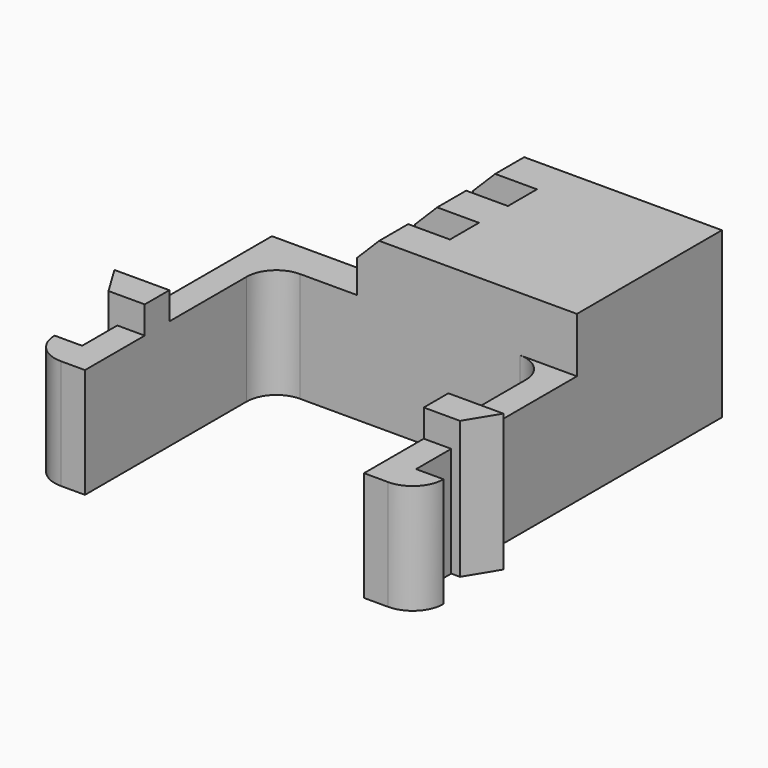
from build123d import *

# Parameters (mm, degrees)
PAD017_DEPTH           = 5
PAD020_DEPTH           = 6.25
SKETCH038_W            = 10
SKETCH038_H            = 1.65
PAD021_DEPTH           = 5
SKETCH085_W            = 10
SKETCH085_H            = 1.65
PAD054_DEPTH           = 7.5
SKETCH083_W            = 7.1
SKETCH083_H            = 1.65
PAD055_DEPTH           = 7.5
SKETCH082_W            = 10
SKETCH082_H            = 1.65
PAD056_DEPTH           = 4.6
SKETCH084_W            = 10
SKETCH084_H            = 1.65
PAD057_DEPTH           = 7.5
LINEARPATTERN019_COUNT = 2
LINEARPATTERN019_PITCH = 3.3
CHAMFER009_SIZE        = 1


with BuildPart() as obj1:
    # Sketch034 → Pad017 (new body)
    with BuildSketch(Plane.XY):
        with BuildLine():
            Line((-1.35, -1.8), (-1.35, 6))
            ThreePointArc((0, 7.35), (-0.954594, 6.954594), (-1.35, 6))
            Line((0, 9), (0, 7.35))
            Line((-2.6, 9), (0, 9))
            Line((-2.6, -1.8), (-2.6, 9))
            Line((-3.85, -1.8), (-2.6, -1.8))
            ThreePointArc((-3.85, -1.8), (-3.439949, -2.789949), (-2.45, -3.2))
            Line((-1.35, -3.2), (-2.45, -3.2))
            Line((-1.35, -1.8), (-1.35, -3.2))
        make_face()
    extrude(amount=PAD017_DEPTH)

    # Sketch037 → Pad020 (join)
    with BuildSketch(Plane.XY):
        Polygon((-1.35, 0.2), (-1.35, 1.6), (-2.6, 1.6), (-3.85, 1.6), (-3, 0.2), (-2.6, 0.2), align=None)
    extrude(amount=PAD020_DEPTH)


with BuildPart() as body030:
    # Mirror002: instance of _obj1
    add(obj1.part.mirror(Plane(origin=(5, 0, 0), x_dir=(0, 1, 0), z_dir=(-1, 0, 0))))

    # Fusion002: union _obj1
    add(obj1.part)


with BuildPart() as body030_1:
    # Clone003 placement: moved
    add(body030.part.moved(Location((-5, 0, 0))))

    # Sketch038 → Pad021 (new body)
    with BuildSketch(Plane.XY):
        with Locations((0, 8.175)):
            Rectangle(SKETCH038_W, SKETCH038_H)
    extrude(amount=PAD021_DEPTH)

    # Sketch085 → Pad054 (new body)
    with BuildSketch(Plane.XY):
        with Locations((2.6, 8.175)):
            Rectangle(SKETCH085_W, SKETCH085_H)
    extrude(amount=PAD054_DEPTH)

    # Sketch083 → Pad055 (join)
    with BuildSketch(Plane.XY):
        with Locations((4.05, 9.825)):
            Rectangle(SKETCH083_W, SKETCH083_H)
    pad055 = extrude(amount=PAD055_DEPTH)

    # Sketch082 → Pad056 (join)
    with BuildSketch(Plane.XY):
        with Locations((2.6, 9.825)):
            Rectangle(SKETCH082_W, SKETCH082_H)
    pad056 = extrude(amount=PAD056_DEPTH)

    # Sketch084 → Pad057 (join)
    with BuildSketch(Plane.XY):
        with Locations((2.6, 11.475)):
            Rectangle(SKETCH084_W, SKETCH084_H)
    pad057 = extrude(amount=PAD057_DEPTH)

    # LinearPattern019: Pad057, Pad056, Pad055 ×2
    with Locations(*[(0, i * LINEARPATTERN019_PITCH, 0) for i in range(1, LINEARPATTERN019_COUNT)]):
        add(pad057)
        add(pad056)
        add(pad055)

    # Chamfer009
    chamfer009_edges = [body030_1.edges().sort_by_distance(p)[0] for p in [
        (-2.4, 8.175, 7.5),
        (-2.4, 11.475, 7.5),
        (-2.4, 14.775, 7.5),
    ]]
    chamfer(chamfer009_edges, length=CHAMFER009_SIZE)


with BuildPart() as body030_2:
    # Body030 placement: moved
    add(body030_1.part.moved(Location((-5, 0, 0))))


solid = body030_2.part
